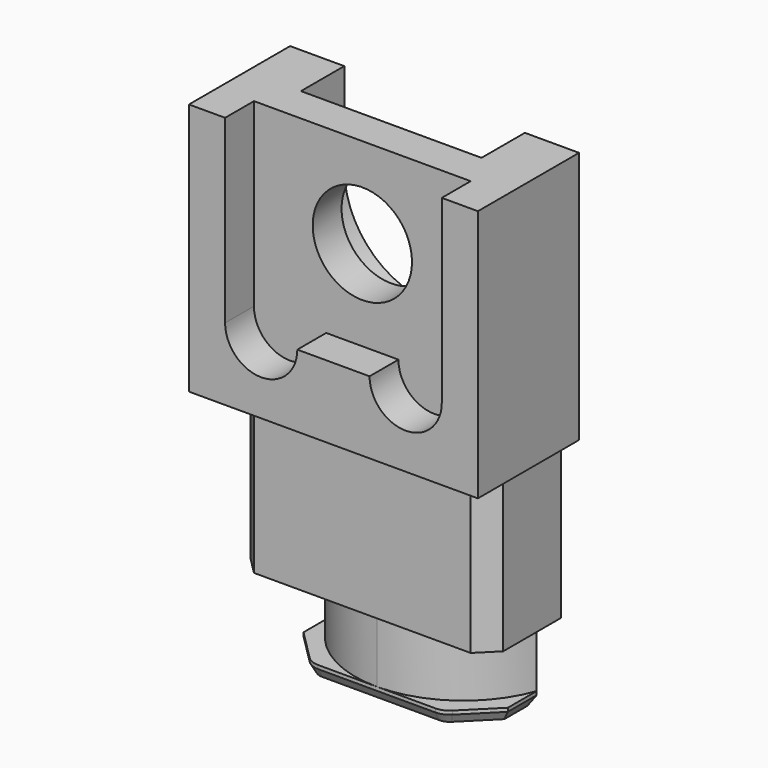
from build123d import *

# Parameters (mm, degrees)
F1_DEPTH  = 0.7
F3_DEPTH  = 4
F5_DEPTH  = 9
F6_W      = 16
F6_H      = 7
F7_DEPTH  = 14
F8_R      = 2.75
F9_DEPTH  = 7.001
F10_R     = 2.75
F11_DEPTH = 2
F12_R     = 2.75
F13_DEPTH = 3
F14_SIZE2 = 0.5
F14_SIZE  = 0.2886751346


with BuildPart() as f1:
    # F0 (on Top) → F1 (new body)
    with BuildSketch(Plane.XY):
        with BuildLine():
            Line((5.657, 0), (-5.657, 0))
            ThreePointArc((-5.657, 0), (-3.4641611178, -2.8989837358), (0, -4))
            ThreePointArc((0, -4), (3.4641611178, -2.8989837358), (5.657, 0))
        make_face()
        with BuildLine():
            ThreePointArc((0, -4), (-3.4641611178, -2.8989837358), (-5.657, 0))
            Line((-5.657, 0), (-5.657, -2))
            Line((-5.657, -2), (-3.9498932188, -3.7071067812))
            ThreePointArc((-3.9498932188, -3.7071067812), (-3.62546987, -3.9238795325), (-3.2427864376, -4))
            Line((-3.2427864376, -4), (0, -4))
        make_face()
        with BuildLine():
            Line((5.657, -2), (5.657, 0))
            ThreePointArc((5.657, 0), (3.4641611178, -2.8989837358), (0, -4))
            Line((0, -4), (3.2427864376, -4))
            ThreePointArc((3.2427864376, -4), (3.62546987, -3.9238795325), (3.9498932188, -3.7071067812))
            Line((3.9498932188, -3.7071067812), (5.657, -2))
        make_face()
    extrude(amount=F1_DEPTH)

    # F2 (on face) → F3 (join)
    with BuildSketch(Plane.XY.offset(0.7)):
        with BuildLine():
            Line((5.657, 0), (-5.657, 0))
            ThreePointArc((-5.657, 0), (-3.4641611178, -2.8989837358), (0, -4))
            ThreePointArc((0, -4), (3.4641611178, -2.8989837358), (5.657, 0))
        make_face()
    extrude(amount=F3_DEPTH)

    # F4 (on face) → F5 (join)
    with BuildSketch(Plane.XY.offset(4.7)):
        with BuildLine():
            Line((5.657, 0), (-5.657, 0))
            ThreePointArc((-5.657, 0), (0, -4), (5.657, 0))
        make_face()
        with BuildLine():
            Line((-5.657, 0), (-7, 0))
            Line((-7, 0), (-7, -4))
            Line((-7, -4), (-6, -5))
            Line((-6, -5), (6, -5))
            Line((6, -5), (7, -4))
            Line((7, -4), (7, 0))
            Line((7, 0), (5.657, 0))
            ThreePointArc((5.657, 0), (0, -4), (-5.657, 0))
        make_face()
        with BuildLine():
            Line((5.657, 0), (-5.657, 0))
            ThreePointArc((-5.657, 0), (0, -4), (5.657, 0))
        make_face()
    extrude(amount=F5_DEPTH)

    # F6 (on face) → F7 (join)
    with BuildSketch(Plane.XY.offset(13.7)):
        with Locations((0, -3.5)):
            Rectangle(F6_W, F6_H)
    extrude(amount=F7_DEPTH)

    # F8 (on face) → F9 (cut, through all)
    with BuildSketch(Plane.XZ.offset(7)):
        with Locations((0, 22.7)):
            Circle(F8_R)
    extrude(amount=-F9_DEPTH, mode=Mode.SUBTRACT)

    # F10 (on face) → F11 (cut)
    with BuildSketch(Plane.XZ.offset(7)):
        with BuildLine():
            Line((6, 27.7), (-6, 27.7))
            Line((-6, 27.7), (-6, 17.7))
            ThreePointArc((-6, 17.7), (-4, 15.7), (-2, 17.7))
            Line((-2, 17.7), (2, 17.7))
            ThreePointArc((2, 17.7), (4, 15.7), (6, 17.7))
            Line((6, 17.7), (6, 27.7))
        make_face()
        with Locations((0, 22.7)):
            Circle(F10_R, mode=Mode.SUBTRACT)
    extrude(amount=-F11_DEPTH, mode=Mode.SUBTRACT)

    # F12 (on face) → F13 (cut)
    with BuildSketch(Plane(origin=(0, 0, 0), x_dir=(-1, 0, 0), z_dir=(0, 1, 0))):
        with BuildLine():
            Line((5, 27.7), (-5, 27.7))
            Line((-5, 27.7), (-5, 22.7))
            ThreePointArc((-5, 22.7), (0, 17.7), (5, 22.7))
            Line((5, 22.7), (5, 27.7))
        make_face()
        with Locations((0, 22.7)):
            Circle(F12_R, mode=Mode.SUBTRACT)
    extrude(amount=-F13_DEPTH, mode=Mode.SUBTRACT)

    # F14
    f14_edges = [f1.edges().sort_by_distance(p)[0] for p in [
        (0, 0, 0),
        (-5.657, -1, 0),
        (-4.803447, -2.853553, 0),
        (-3.62547, -3.92388, 0),
        (0, -4, 0),
        (3.62547, -3.92388, 0),
        (4.803447, -2.853553, 0),
        (5.657, -1, 0),
    ]]
    f14_side = f1.faces().sort_by_distance((0, -1.868566, 0))[0]
    chamfer(f14_edges, length=F14_SIZE, length2=F14_SIZE2, reference=f14_side)


solid = f1.part
